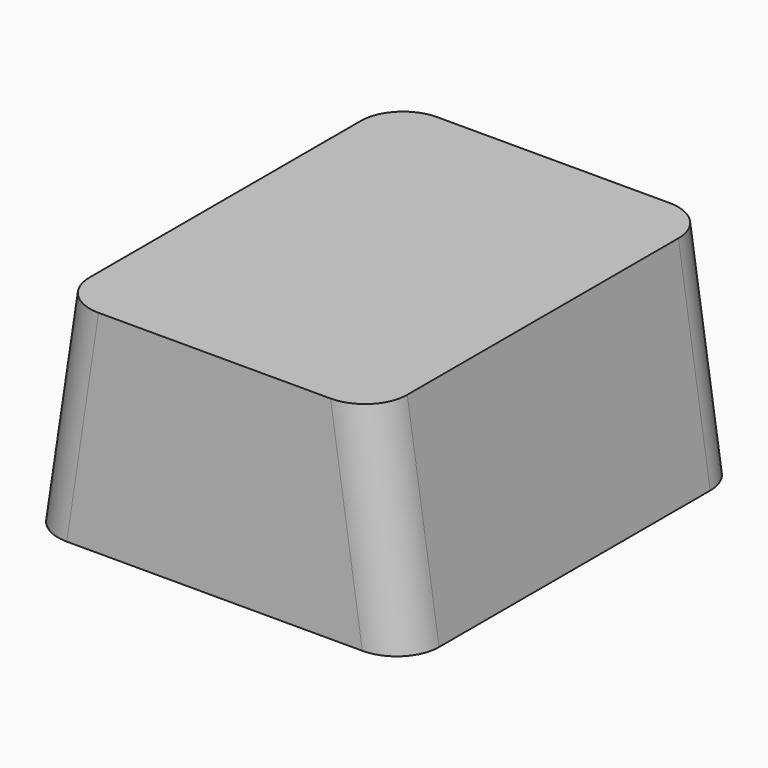
from build123d import *

# Parameters (mm, degrees)
PAD_DEPTH = 20
FILLET_R  = 2


with BuildPart() as part:
    # Sketch → Pad (new body)
    with BuildSketch(Plane.XZ):
        Polygon((0, 0), (18, 0), (16.5, 10), (1.5, 10), align=None)
    extrude(amount=PAD_DEPTH)

    # Fillet
    fillet_edges = [part.edges().sort_by_distance(p)[0] for p in [
        (0.75, 0, 5),
        (0.75, -20, 5),
        (17.25, -20, 5),
        (17.25, 0, 5),
    ]]
    fillet(fillet_edges, radius=FILLET_R)


solid = part.part
